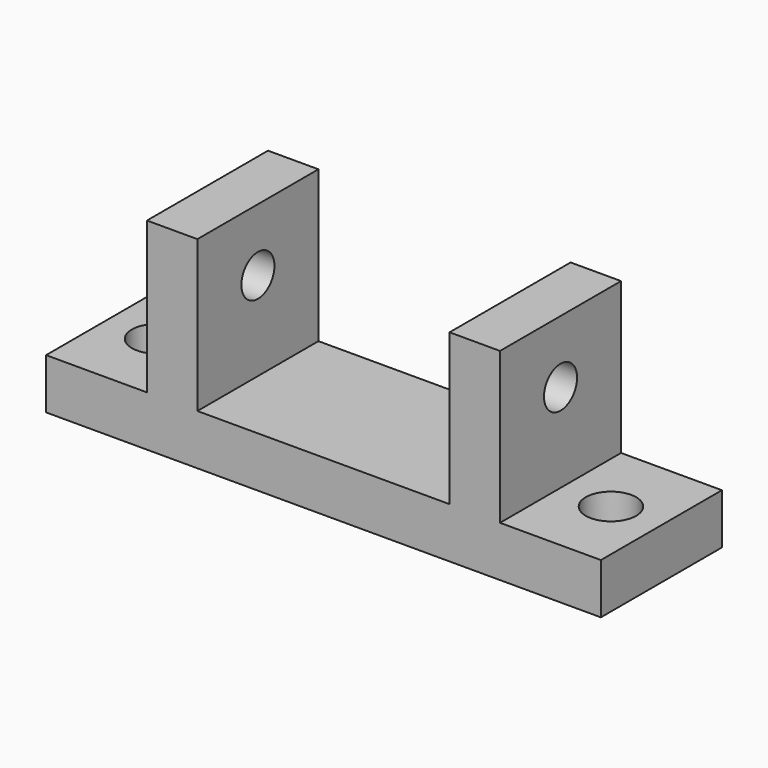
from build123d import *

# Parameters (mm, degrees)
F0_W     = 55
F0_H     = 15
F1_DEPTH = 5
F2_W     = 5
F2_H     = 15
F3_DEPTH = 15
F4_R     = 2.5
F5_DEPTH = 25
F6_R     = 2.5
F7_DEPTH = 25
F8_R     = 2.05
F9_DEPTH = 45.001


with BuildPart() as f1:
    # F0 (on Top) → F1 (new body)
    with BuildSketch(Plane.XY):
        with Locations((12.159763, 0.993737)):
            Rectangle(F0_W, F0_H)
    extrude(amount=F1_DEPTH)

    # F2 (on face) → F3 (join)
    with BuildSketch(Plane.XY.offset(5)):
        with Locations((-2.840237, 0.993737)):
            Rectangle(F2_W, F2_H)
        with Locations((27.159763, 0.993737)):
            Rectangle(F2_W, F2_H)
    extrude(amount=F3_DEPTH)

    # F4 (on face) → F5 (cut)
    with BuildSketch(Plane.XY.offset(5)):
        with Locations((-10.340237, 0.993737)):
            Circle(F4_R)
    extrude(amount=-F5_DEPTH, mode=Mode.SUBTRACT)

    # F6 (on face) → F7 (cut)
    with BuildSketch(Plane.XY.offset(5)):
        with Locations((34.659763, 0.993737)):
            Circle(F6_R)
    extrude(amount=-F7_DEPTH, mode=Mode.SUBTRACT)

    # F8 (on face) → F9 (cut, through all)
    with BuildSketch(Plane(origin=(-5.340237, 0, 0), x_dir=(0, -1, 0), z_dir=(-1, 0, 0))):
        with Locations((-0.993737, 13.786643)):
            Circle(F8_R)
    extrude(amount=-F9_DEPTH, mode=Mode.SUBTRACT)


solid = f1.part
